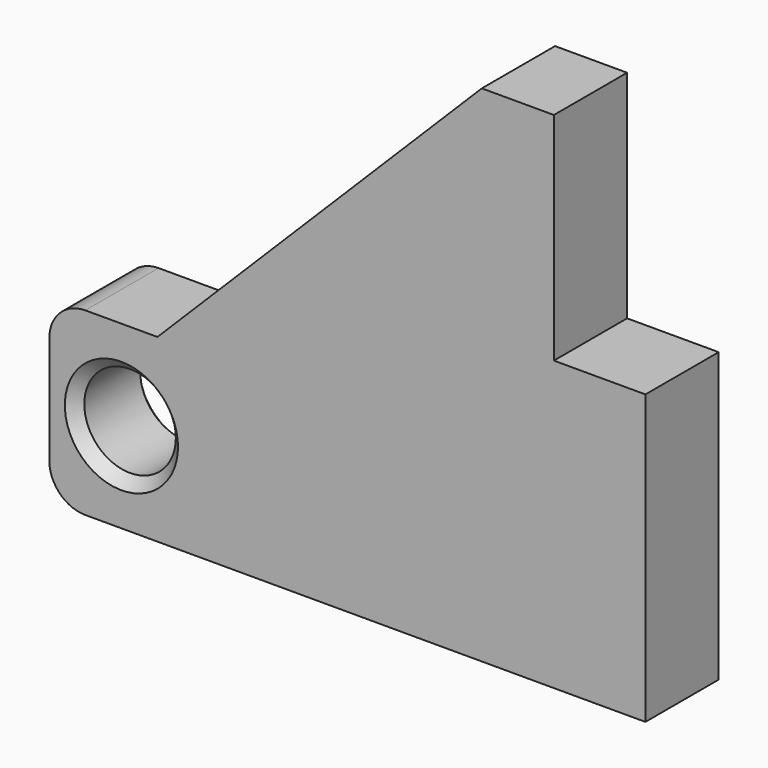
from build123d import *

# Parameters (mm, degrees)
F0_R     = 6.35
F1_DEPTH = 12.7
F2_SIZE  = 1.5


with BuildPart() as f1:
    # F0 (on Front) → F1 (new body)
    with BuildSketch(Plane.XZ):
        with BuildLine():
            Line((-70, 20), (-70, 5))
            ThreePointArc((-70, 5), (-68.535534, 1.464466), (-65, 0))
            Line((-65, 0), (12.7, 0))
            Line((12.7, 0), (12.7, 40))
            Line((12.7, 40), (0, 40))
            Line((0, 40), (0, 70))
            Line((0, 70), (-10, 70))
            Line((-10, 70), (-55, 25))
            Line((-55, 25), (-65, 25))
            ThreePointArc((-65, 25), (-68.535534, 23.535534), (-70, 20))
        make_face()
        with Locations((-60, 12.5)):
            Circle(F0_R, mode=Mode.SUBTRACT)
    extrude(amount=F1_DEPTH)

    # F2
    f2_edges = [f1.edges().sort_by_distance(p)[0] for p in [
        (-66.35, 0, 12.5),
        (-66.35, -12.7, 12.5),
    ]]
    chamfer(f2_edges, length=F2_SIZE)


solid = f1.part
